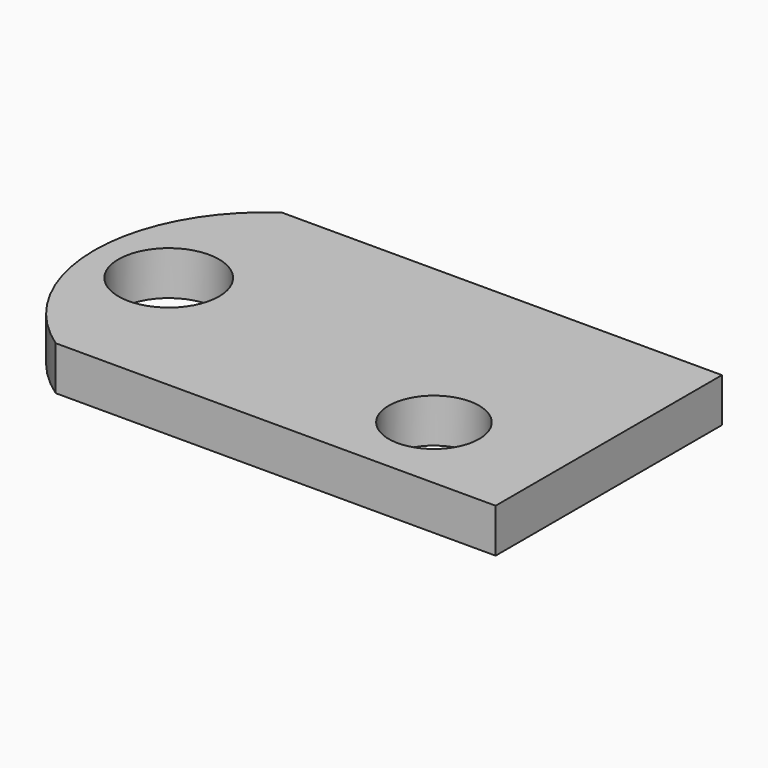
from build123d import *

# Parameters (mm, degrees)
F0_R     = 2.875
F0_R_2   = 3.2
F1_DEPTH = 2.8


with BuildPart() as f1:
    # F0 (on Top) → F1 (new body)
    with BuildSketch(Plane.XY):
        with BuildLine():
            Line((0, -18), (0, 0))
            Line((0, 0), (-28, 0))
            ThreePointArc((-28, 0), (-32.742648, -9), (-28, -18))
            Line((-28, -18), (0, -18))
        make_face()
        with Locations((-8, -12.905)):
            Circle(F0_R, mode=Mode.SUBTRACT)
        with Locations((-28, -9)):
            Circle(F0_R_2, mode=Mode.SUBTRACT)
    extrude(amount=F1_DEPTH)


solid = f1.part
